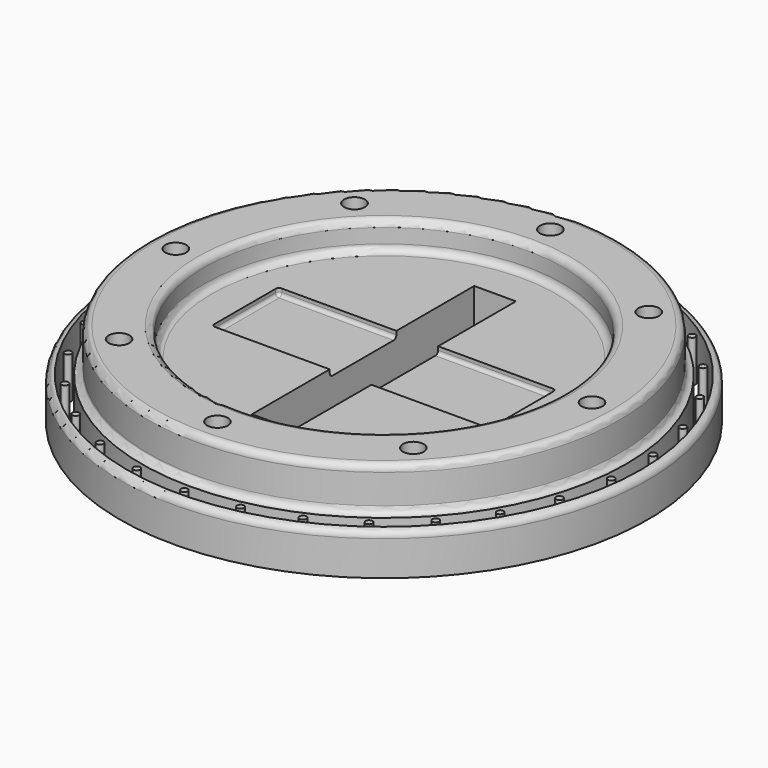
from build123d import *

# Parameters (mm, degrees)
F2_R      = 0.5
F3_R      = 0.5
F5_W      = 20
F5_H      = 6
F6_DEPTH  = 0.5
F7_R      = 0.25
F8_W      = 3
F8_H      = 20
F9_DEPTH  = 5
F10_R     = 0.75
F11_DEPTH = 25
F12_R     = 18.5
F12_R_2   = 0.2476089496
F12_R_3   = 17.4200000594
F13_DEPTH = 25


with BuildPart() as f1:
    # F0 (on Front) → F1 (revolve)
    with BuildSketch(Plane.XZ):
        Polygon((-19, 0), (0, 0), (0, 4.0800003121), (-12.9200000594, 4.0800003121), (-12.9200000594, 6.1199999108), (-16.9200000594, 6.1199999108), (-16.9200000594, 3), (-19, 3), align=None)
    revolve(axis=Axis((0, 0, 2.0400001561), (0, 0, -1)))

    # F2
    f2_edges = [f1.edges().sort_by_distance(p)[0] for p in [
        (16.92, 0, 3),
        (19, 0, 3),
    ]]
    fillet(f2_edges, radius=F2_R)

    # F3
    f3_edges = [f1.edges().sort_by_distance(p)[0] for p in [
        (16.92, 0, 6.12),
        (12.92, 0, 6.12),
        (12.92, 0, 4.08),
    ]]
    fillet(f3_edges, radius=F3_R)

    # F5 (on offset) → F6 (cut)
    with BuildSketch(Plane.XY.offset(4.0800003121)):
        Rectangle(F5_W, F5_H)
    extrude(amount=-F6_DEPTH, mode=Mode.SUBTRACT)

    # F7
    f7_edges = [f1.edges().sort_by_distance(p)[0] for p in [
        (-10, 3, 3.83),
        (-10, -3, 3.83),
        (10, 3, 3.83),
        (10, -3, 3.83),
        (10, 0, 3.58),
        (0, -3, 3.58),
        (0, 3, 3.58),
        (-10, 0, 3.58),
    ]]
    fillet(f7_edges, radius=F7_R)

    # F8 (on offset) → F9 (cut)
    with BuildSketch(Plane.XY.offset(4.0800003121)):
        Rectangle(F8_W, F8_H)
    extrude(amount=-F9_DEPTH, mode=Mode.SUBTRACT)

    # F10 (on face) → F11 (cut)
    with BuildSketch(Plane.XY.offset(6.1199999108)):
        with Locations((-10.59167251, 10.59167251)):
            Circle(F10_R)
        with Locations((-10.59167251, -10.59167251)):
            Circle(F10_R)
        with Locations((-14.9788869118, 0)):
            Circle(F10_R)
        with Locations((0, 14.9788869118)):
            Circle(F10_R)
        with Locations((0, -14.9788869118)):
            Circle(F10_R)
        with Locations((10.59167251, -10.59167251)):
            Circle(F10_R)
        with Locations((14.9788869118, 0)):
            Circle(F10_R)
        with Locations((10.59167251, 10.59167251)):
            Circle(F10_R)
    extrude(amount=-F11_DEPTH, mode=Mode.SUBTRACT)

    # F12 (on face) → F13 (cut)
    with BuildSketch(Plane.XY.offset(3)):
        Circle(F12_R)
        with Locations((-10.5568798145, -14.5302985132)):
            Circle(F12_R_2, mode=Mode.SUBTRACT)
        with Locations((-13.3472055938, -12.0178778967)):
            Circle(F12_R_2, mode=Mode.SUBTRACT)
        with Locations((-7.3051677298, -16.4076753607)):
            Circle(F12_R_2, mode=Mode.SUBTRACT)
        with Locations((-3.7341847612, -17.5679580621)):
            Circle(F12_R_2, mode=Mode.SUBTRACT)
        with Locations((-15.5541944416, -8.9802183479)):
            Circle(F12_R_2, mode=Mode.SUBTRACT)
        with Locations((-17.081390355, -5.5500801654)):
            Circle(F12_R_2, mode=Mode.SUBTRACT)
        with Locations((-17.8620475443, -1.8773768474)):
            Circle(F12_R_2, mode=Mode.SUBTRACT)
        with Locations((0, -17.9604366957)):
            Circle(F12_R_2, mode=Mode.SUBTRACT)
        with Locations((3.7341847612, -17.5679580621)):
            Circle(F12_R_2, mode=Mode.SUBTRACT)
        with Locations((7.3051677298, -16.4076753607)):
            Circle(F12_R_2, mode=Mode.SUBTRACT)
        with Locations((10.5568798145, -14.5302985132)):
            Circle(F12_R_2, mode=Mode.SUBTRACT)
        with Locations((13.3472055938, -12.0178778967)):
            Circle(F12_R_2, mode=Mode.SUBTRACT)
        with Locations((15.5541944416, -8.9802183479)):
            Circle(F12_R_2, mode=Mode.SUBTRACT)
        with Locations((17.081390355, -5.5500801654)):
            Circle(F12_R_2, mode=Mode.SUBTRACT)
        with Locations((17.8620475443, -1.8773768474)):
            Circle(F12_R_2, mode=Mode.SUBTRACT)
        with Locations((-17.8620475443, 1.8773768474)):
            Circle(F12_R_2, mode=Mode.SUBTRACT)
        with Locations((-17.081390355, 5.5500801654)):
            Circle(F12_R_2, mode=Mode.SUBTRACT)
        with Locations((-15.5541944416, 8.9802183479)):
            Circle(F12_R_2, mode=Mode.SUBTRACT)
        with Locations((-13.3472055938, 12.0178778967)):
            Circle(F12_R_2, mode=Mode.SUBTRACT)
        with Locations((-10.5568798145, 14.5302985132)):
            Circle(F12_R_2, mode=Mode.SUBTRACT)
        with Locations((-7.3051677298, 16.4076753607)):
            Circle(F12_R_2, mode=Mode.SUBTRACT)
        with Locations((-3.7341847612, 17.5679580621)):
            Circle(F12_R_2, mode=Mode.SUBTRACT)
        Circle(F12_R_3, mode=Mode.SUBTRACT)
        with Locations((17.8620475443, 1.8773768474)):
            Circle(F12_R_2, mode=Mode.SUBTRACT)
        with Locations((17.081390355, 5.5500801654)):
            Circle(F12_R_2, mode=Mode.SUBTRACT)
        with Locations((15.5541944416, 8.9802183479)):
            Circle(F12_R_2, mode=Mode.SUBTRACT)
        with Locations((0, 17.9604366957)):
            Circle(F12_R_2, mode=Mode.SUBTRACT)
        with Locations((3.7341847612, 17.5679580621)):
            Circle(F12_R_2, mode=Mode.SUBTRACT)
        with Locations((7.3051677298, 16.4076753607)):
            Circle(F12_R_2, mode=Mode.SUBTRACT)
        with Locations((13.3472055938, 12.0178778967)):
            Circle(F12_R_2, mode=Mode.SUBTRACT)
        with Locations((10.5568798145, 14.5302985132)):
            Circle(F12_R_2, mode=Mode.SUBTRACT)
    extrude(amount=-F13_DEPTH, mode=Mode.SUBTRACT)


solid = f1.part
